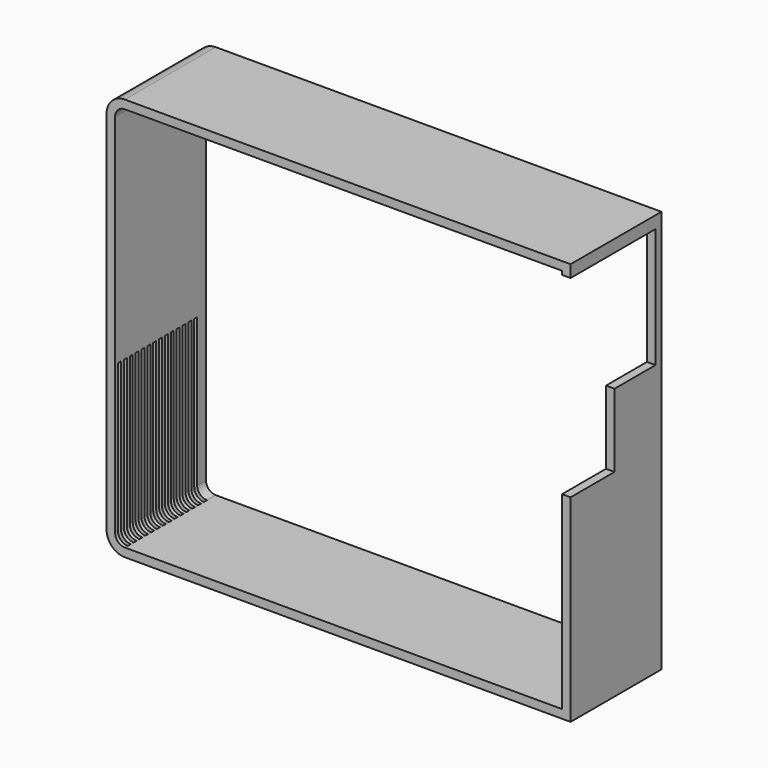
from build123d import *

# Parameters (mm, degrees)
F1_DEPTH  = 93
F3_DEPTH  = 25
F4_W      = 3
F4_H      = 15.738895
F4_H_2    = 121.261105
F5_DEPTH  = 15
F6_DEPTH  = 15
F7_DEPTH  = 15
F8_DEPTH  = 15
F9_DEPTH  = 15
F10_DEPTH = 15
F11_DEPTH = 15
F4_H_3    = 121.394625
F12_DEPTH = 15
F13_DEPTH = 15
F14_DEPTH = 15
F15_DEPTH = 15
F16_DEPTH = 15
F17_DEPTH = 15
F18_DEPTH = 15
F19_DEPTH = 15
F20_W     = 23
F20_H     = 10
F21_DEPTH = 0.2
F22_R     = 2.5
F23_DEPTH = 2
F24_DEPTH = 2


with BuildPart() as f1:
    # F0 (on Front) → F1 (new body)
    with BuildSketch(Plane.XZ):
        with BuildLine():
            Line((191.195573, 236.532636), (-173.804427, 236.532636))
            ThreePointArc((-173.804427, 236.532636), (-184.411028, 232.139238), (-188.804427, 221.532636))
            Line((-188.804427, 221.532636), (-188.804427, -78.467364))
            ThreePointArc((-188.804427, -78.467364), (-184.411028, -89.073966), (-173.804427, -93.467364))
            Line((-173.804427, -93.467364), (191.195573, -93.467364))
            Line((191.195573, -93.467364), (191.195573, 236.532636))
        make_face()
        with BuildLine():
            ThreePointArc((-181.804427, 221.532636), (-179.461281, 227.18949), (-173.804427, 229.532636))
            Line((-173.804427, 229.532636), (184.195573, 229.532636))
            Line((184.195573, 229.532636), (184.195573, -86.467364))
            Line((184.195573, -86.467364), (-173.804427, -86.467364))
            ThreePointArc((-173.804427, -86.467364), (-179.461281, -84.124218), (-181.804427, -78.467364))
            Line((-181.804427, -78.467364), (-181.804427, 221.532636))
        make_face(mode=Mode.SUBTRACT)
    extrude(amount=F1_DEPTH)

    # F2 (on face) → F3 (cut)
    with BuildSketch(Plane.YZ.offset(191.195573)):
        Polygon((-6, 128.456), (-6, 226.532636), (-93, 226.532636), (-93, 68.456), (-48, 68.456), (-48, 128.456), align=None)
    extrude(amount=-F3_DEPTH, mode=Mode.SUBTRACT)

    # F4 (on face) → F5 (cut)
    with BuildSketch(Plane(origin=(-188.804427, 0, 0), x_dir=(0, -1, 0), z_dir=(-1, 0, 0))):
        with Locations((88.5, -86.336811)):
            Rectangle(F4_W, F4_H)
        with Locations((88.5, -17.836812)):
            Rectangle(F4_W, F4_H_2)
    extrude(amount=-F5_DEPTH, mode=Mode.SUBTRACT)

    # F4 (on face) → F6 (cut)
    with BuildSketch(Plane(origin=(-188.804427, 0, 0), x_dir=(0, -1, 0), z_dir=(-1, 0, 0))):
        with Locations((82.5, -17.836812)):
            Rectangle(F4_W, F4_H_2)
        with Locations((82.5, -86.336811)):
            Rectangle(F4_W, F4_H)
    extrude(amount=-F6_DEPTH, mode=Mode.SUBTRACT)

    # F4 (on face) → F7 (cut)
    with BuildSketch(Plane(origin=(-188.804427, 0, 0), x_dir=(0, -1, 0), z_dir=(-1, 0, 0))):
        with Locations((76.5, -17.836812)):
            Rectangle(F4_W, F4_H_2)
        with Locations((76.5, -86.336811)):
            Rectangle(F4_W, F4_H)
    extrude(amount=-F7_DEPTH, mode=Mode.SUBTRACT)

    # F4 (on face) → F8 (cut)
    with BuildSketch(Plane(origin=(-188.804427, 0, 0), x_dir=(0, -1, 0), z_dir=(-1, 0, 0))):
        with Locations((70.5, -17.836812)):
            Rectangle(F4_W, F4_H_2)
        with Locations((70.5, -86.336811)):
            Rectangle(F4_W, F4_H)
    extrude(amount=-F8_DEPTH, mode=Mode.SUBTRACT)

    # F4 (on face) → F9 (cut)
    with BuildSketch(Plane(origin=(-188.804427, 0, 0), x_dir=(0, -1, 0), z_dir=(-1, 0, 0))):
        with Locations((64.5, -17.836812)):
            Rectangle(F4_W, F4_H_2)
        with Locations((64.5, -86.336811)):
            Rectangle(F4_W, F4_H)
    extrude(amount=-F9_DEPTH, mode=Mode.SUBTRACT)

    # F4 (on face) → F10 (cut)
    with BuildSketch(Plane(origin=(-188.804427, 0, 0), x_dir=(0, -1, 0), z_dir=(-1, 0, 0))):
        with Locations((58.5, -86.336811)):
            Rectangle(F4_W, F4_H)
        with Locations((58.5, -17.836812)):
            Rectangle(F4_W, F4_H_2)
    extrude(amount=-F10_DEPTH, mode=Mode.SUBTRACT)

    # F4 (on face) → F11 (cut)
    with BuildSketch(Plane(origin=(-188.804427, 0, 0), x_dir=(0, -1, 0), z_dir=(-1, 0, 0))):
        with Locations((52.5, -17.836812)):
            Rectangle(F4_W, F4_H_2)
        with Locations((52.5, -86.336811)):
            Rectangle(F4_W, F4_H)
    extrude(amount=-F11_DEPTH, mode=Mode.SUBTRACT)

    # F4 (on face) → F12 (cut)
    with BuildSketch(Plane(origin=(-188.804427, 0, 0), x_dir=(0, -1, 0), z_dir=(-1, 0, 0))):
        with Locations((46.5, -86.336811)):
            Rectangle(F4_W, F4_H)
        with Locations((46.5, -17.770052)):
            Rectangle(F4_W, F4_H_3)
    extrude(amount=-F12_DEPTH, mode=Mode.SUBTRACT)

    # F4 (on face) → F13 (cut)
    with BuildSketch(Plane(origin=(-188.804427, 0, 0), x_dir=(0, -1, 0), z_dir=(-1, 0, 0))):
        with Locations((40.5, -17.770052)):
            Rectangle(F4_W, F4_H_3)
        with Locations((40.5, -86.336811)):
            Rectangle(F4_W, F4_H)
    extrude(amount=-F13_DEPTH, mode=Mode.SUBTRACT)

    # F4 (on face) → F14 (cut)
    with BuildSketch(Plane(origin=(-188.804427, 0, 0), x_dir=(0, -1, 0), z_dir=(-1, 0, 0))):
        with Locations((40.5, -17.770052)):
            Rectangle(F4_W, F4_H_3)
        with Locations((40.5, -86.336811)):
            Rectangle(F4_W, F4_H)
    extrude(amount=-F14_DEPTH, mode=Mode.SUBTRACT)

    # F4 (on face) → F15 (cut)
    with BuildSketch(Plane(origin=(-188.804427, 0, 0), x_dir=(0, -1, 0), z_dir=(-1, 0, 0))):
        with Locations((34.5, -17.770052)):
            Rectangle(F4_W, F4_H_3)
        with Locations((34.5, -86.336811)):
            Rectangle(F4_W, F4_H)
    extrude(amount=-F15_DEPTH, mode=Mode.SUBTRACT)

    # F4 (on face) → F16 (cut)
    with BuildSketch(Plane(origin=(-188.804427, 0, 0), x_dir=(0, -1, 0), z_dir=(-1, 0, 0))):
        with Locations((28.5, -17.770052)):
            Rectangle(F4_W, F4_H_3)
        with Locations((28.5, -86.336811)):
            Rectangle(F4_W, F4_H)
    extrude(amount=-F16_DEPTH, mode=Mode.SUBTRACT)

    # F4 (on face) → F17 (cut)
    with BuildSketch(Plane(origin=(-188.804427, 0, 0), x_dir=(0, -1, 0), z_dir=(-1, 0, 0))):
        with Locations((22.5, -17.770052)):
            Rectangle(F4_W, F4_H_3)
        with Locations((22.5, -86.336811)):
            Rectangle(F4_W, F4_H)
    extrude(amount=-F17_DEPTH, mode=Mode.SUBTRACT)

    # F4 (on face) → F18 (cut)
    with BuildSketch(Plane(origin=(-188.804427, 0, 0), x_dir=(0, -1, 0), z_dir=(-1, 0, 0))):
        with Locations((16.5, -17.770052)):
            Rectangle(F4_W, F4_H_3)
        with Locations((16.5, -86.336811)):
            Rectangle(F4_W, F4_H)
    extrude(amount=-F18_DEPTH, mode=Mode.SUBTRACT)

    # F4 (on face) → F19 (cut)
    with BuildSketch(Plane(origin=(-188.804427, 0, 0), x_dir=(0, -1, 0), z_dir=(-1, 0, 0))):
        with Locations((10.5, -17.770052)):
            Rectangle(F4_W, F4_H_3)
        with Locations((10.5, -86.336811)):
            Rectangle(F4_W, F4_H)
    extrude(amount=-F19_DEPTH, mode=Mode.SUBTRACT)

    # F20 (on face) → F21 (join)
    with BuildSketch(Plane(origin=(-188.804427, 0, 0), x_dir=(0, -1, 0), z_dir=(-1, 0, 0))):
        with Locations((71.5, 64.793741)):
            Rectangle(F20_W, F20_H)
    extrude(amount=F21_DEPTH)

    # F22 (on face) → F23 (cut)
    with BuildSketch(Plane(origin=(-188.804427, 0, 0), x_dir=(0, -1, 0), z_dir=(-1, 0, 0))):
        with Locations((40, 56.793741)):
            Circle(F22_R)
    extrude(amount=-F23_DEPTH, mode=Mode.SUBTRACT)

    # F22 (on face) → F24 (cut)
    with BuildSketch(Plane(origin=(-188.804427, 0, 0), x_dir=(0, -1, 0), z_dir=(-1, 0, 0))):
        with Locations((40, 72.293741)):
            Circle(F22_R)
    extrude(amount=-F24_DEPTH, mode=Mode.SUBTRACT)


solid = f1.part
